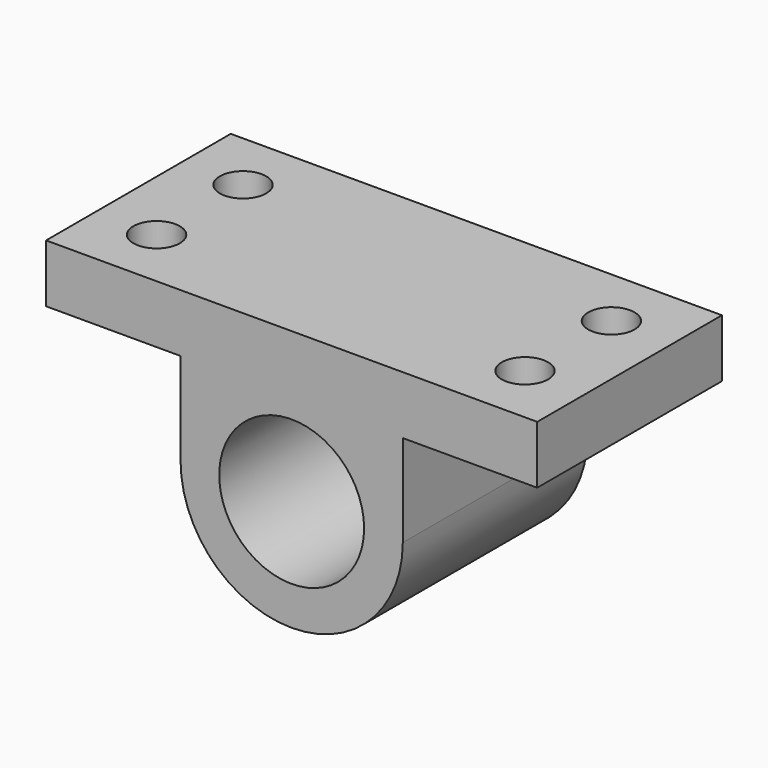
from build123d import *

# Parameters (mm, degrees)
F0_R     = 7.493
F1_DEPTH = 23.876
F2_R     = 2.4
F3_DEPTH = 6


with BuildPart() as f1:
    # F0 (on Front) → F1 (new body)
    with BuildSketch(Plane.XZ):
        with BuildLine():
            Line((25.4, 15.525), (-25.4, 15.525))
            Line((-25.4, 15.525), (-25.4, 9.525))
            Line((-25.4, 9.525), (-11.493, 9.525))
            Line((-11.493, 9.525), (-11.493, 0))
            ThreePointArc((-11.493, 0), (0, -11.493), (11.493, 0))
            Line((11.493, 0), (11.493, 9.525))
            Line((11.493, 9.525), (25.4, 9.525))
            Line((25.4, 9.525), (25.4, 15.525))
        make_face()
        Circle(F0_R, mode=Mode.SUBTRACT)
    extrude(amount=F1_DEPTH)

    # F2 (on face) → F3 (cut, through all)
    with BuildSketch(Plane.XY.offset(15.525)):
        with Locations((-19.05, -6.35)):
            Circle(F2_R)
        with Locations((-19.05, -17.526)):
            Circle(F2_R)
        with Locations((19.05, -17.526)):
            Circle(F2_R)
        with Locations((19.05, -6.35)):
            Circle(F2_R)
    extrude(amount=-F3_DEPTH, mode=Mode.SUBTRACT)


solid = f1.part
